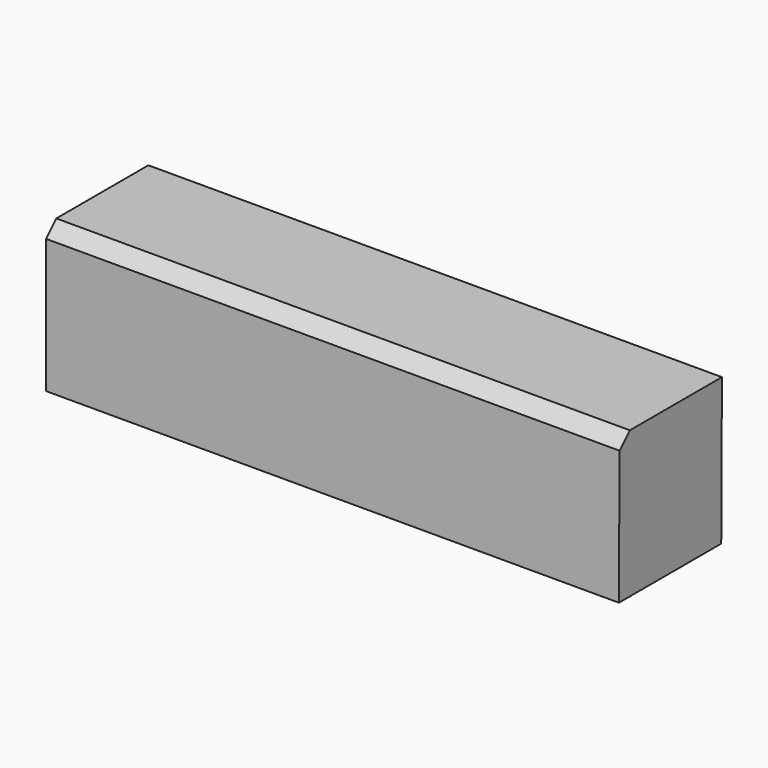
from build123d import *

# Parameters (mm, degrees)
F1_DEPTH = 50.8
F2_SIZE  = 5.08


with BuildPart() as f1:
    # F0 (on Front) → F1 (new body)
    with BuildSketch(Plane.XZ):
        Polygon((-116.648033, 28.059516), (-116.648033, -30.266628), (110.904016, -30.266628), (111.176804, 28.059516), align=None)
    extrude(amount=F1_DEPTH)

    # F2
    f2_edges = [f1.edges().sort_by_distance(p)[0] for p in [
        (-2.735615, -50.8, 28.059516),
    ]]
    chamfer(f2_edges, length=F2_SIZE)


solid = f1.part
